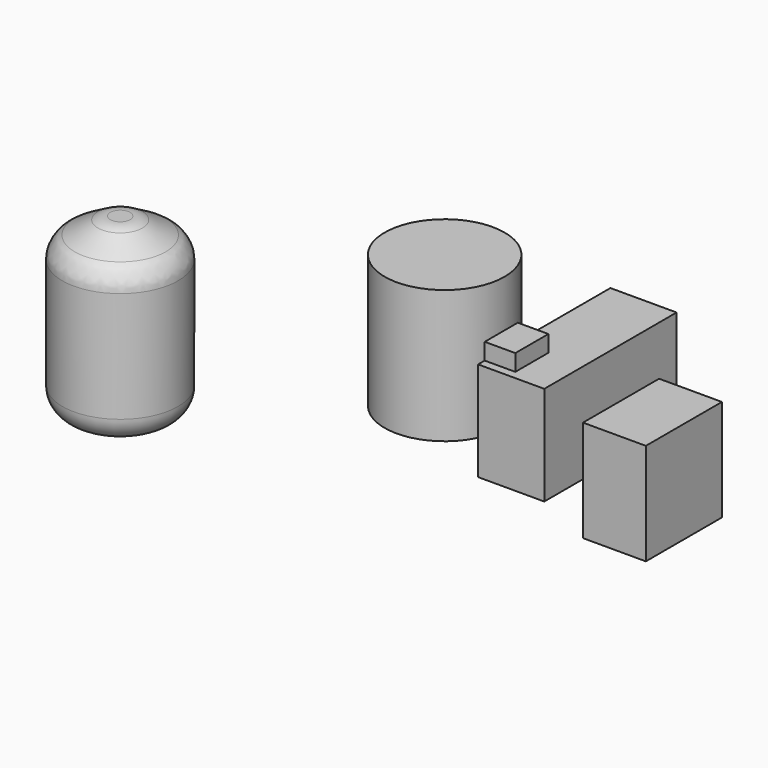
from build123d import *

# Parameters (mm, degrees)
F0_W      = 760
F0_H      = 1150
F1_DEPTH  = 1230
F2_R      = 725
F3_DEPTH  = 1610
F4_W      = 800
F4_H      = 2000
F5_DEPTH  = 1200
F6_W      = 370
F6_H      = 500
F7_DEPTH  = 200
F8_R      = 700
F9_DEPTH  = 2100
F10_R     = 300
F11_SIZE2 = 288.6751345948
F11_SIZE  = 500
F12_R     = 300


with BuildPart() as f1:
    # F0 (on Top) → F1 (new body)
    with BuildSketch(Plane.XY):
        with Locations((-31.4733404666, -119.2426998605)):
            Rectangle(F0_W, F0_H)
    extrude(amount=F1_DEPTH)


with BuildPart() as f3:
    # F2 (on Top) → F3 (new body)
    with BuildSketch(Plane.XY):
        with Locations((-3121.7975616455, 602.2063493729)):
            Circle(F2_R)
    extrude(amount=F3_DEPTH)


with BuildPart() as f5:
    # F4 (on Top) → F5 (new body)
    with BuildSketch(Plane.XY):
        with Locations((-1564.8182034492, 661.7751377383)):
            Rectangle(F4_W, F4_H)
    extrude(amount=F5_DEPTH)

    # F6 (on face) → F7 (join)
    with BuildSketch(Plane.XY.offset(1200)):
        with Locations((-1779.8182034492, 11.7751377383)):
            Rectangle(F6_W, F6_H)
    extrude(amount=F7_DEPTH)


with BuildPart() as f9:
    # F8 (on Top) → F9 (new body)
    with BuildSketch(Plane.XY):
        with Locations((-5419.2771911621, -1430.2269220352)):
            Circle(F8_R)
    extrude(amount=F9_DEPTH)

    # F10
    f10_edges = [f9.edges().sort_by_distance(p)[0] for p in [
        (-6119.277191, -1430.226922, 0),
    ]]
    fillet(f10_edges, radius=F10_R)

    # F11
    f11_edges = [f9.edges().sort_by_distance(p)[0] for p in [
        (-6119.277191, -1430.226922, 2100),
    ]]
    f11_side = f9.faces().sort_by_distance((-5419.277191, -1430.226922, 2100))[0]
    chamfer(f11_edges, length=F11_SIZE, length2=F11_SIZE2, reference=f11_side)

    # F12
    f12_edges = [f9.edges().sort_by_distance(p)[0] for p in [
        (-6119.277191, -1430.226922, 1811.324865),
        (-5619.277191, -1430.226922, 2100),
    ]]
    fillet(f12_edges, radius=F12_R)


solid = Compound([f1.part, f3.part, f5.part, f9.part])
